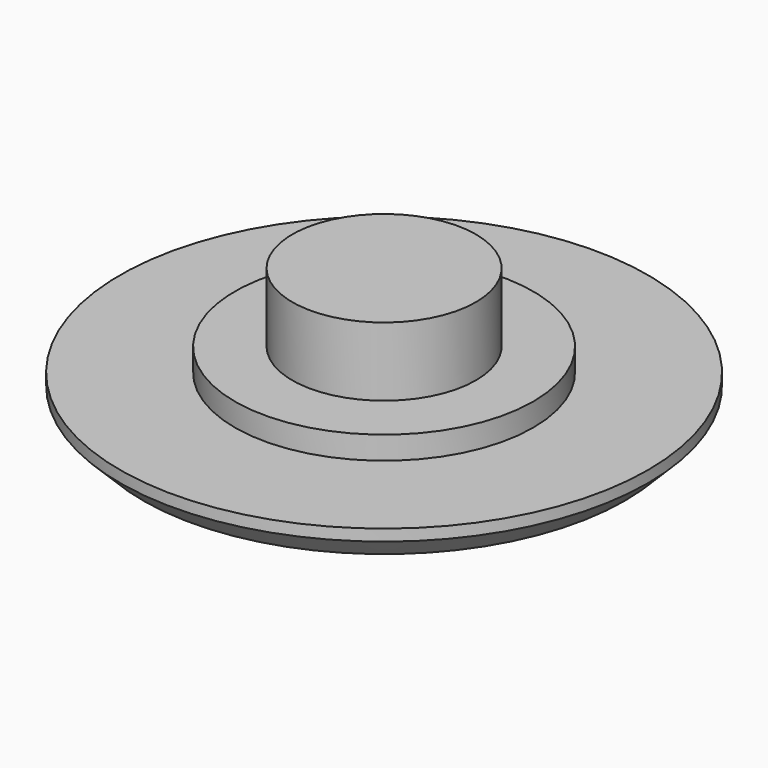
from build123d import *

# Parameters (mm, degrees)
F0_R     = 11.5
F0_R_2   = 6.5
F1_DEPTH = 1.5
F0_R_3   = 4
F2_DEPTH = 2.5
F3_DEPTH = 5.5
F4_SIZE  = 1


with BuildPart() as f1:
    # F0 (on Top) → F1 (new body)
    with BuildSketch(Plane.XY):
        Circle(F0_R)
        Circle(F0_R_2, mode=Mode.SUBTRACT)
    extrude(amount=F1_DEPTH)

    # F0 (on Top) → F2 (join)
    with BuildSketch(Plane.XY):
        Circle(F0_R_2)
        Circle(F0_R_3, mode=Mode.SUBTRACT)
    extrude(amount=F2_DEPTH)

    # F0 (on Top) → F3 (join)
    with BuildSketch(Plane.XY):
        Circle(F0_R_3)
    extrude(amount=F3_DEPTH)

    # F4
    f4_edges = [f1.edges().sort_by_distance(p)[0] for p in [
        (-11.5, 0, 0),
    ]]
    chamfer(f4_edges, length=F4_SIZE)


solid = f1.part
